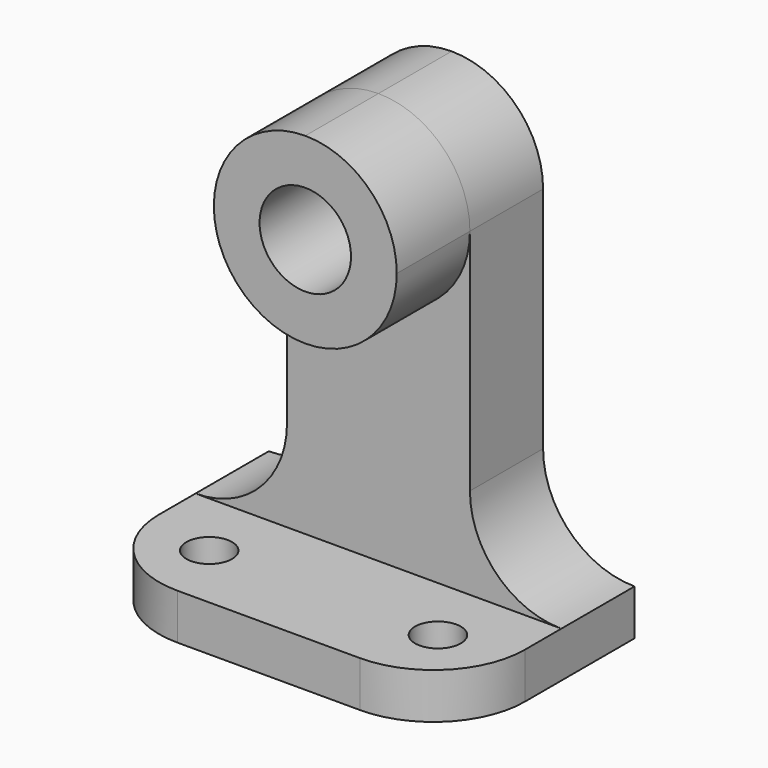
from build123d import *

# Parameters (mm, degrees)
F1_DEPTH  = 50.8
F3_DEPTH  = 12.701
F5_DEPTH  = 12.7
F6_DEPTH  = 12.701
F7_R      = 6.35
F8_DEPTH  = 25.401
F9_R      = 3.175
F10_DEPTH = 6.351
F12_DEPTH = 6.351


with BuildPart() as f1:
    # F0 (on Right) → F1 (new body)
    with BuildSketch(Plane.YZ):
        Polygon((12.7, 0), (12.7, 63.5), (0, 63.5), (0, 6.35), (-19.05, 6.35), (-19.05, 0), align=None)
    extrude(amount=F1_DEPTH)

    # F2 (on face) → F3 (cut, through all)
    with BuildSketch(Plane.XZ):
        with BuildLine():
            Line((12.7, 19.05), (12.7, 63.5))
            Line((12.7, 63.5), (0, 63.5))
            Line((0, 63.5), (0, 31.75))
            ThreePointArc((0, 31.75), (8.9802561211, 28.0302561211), (12.7, 19.05))
        make_face()
        with BuildLine():
            Line((38.1, 63.5), (38.1, 19.05))
            ThreePointArc((38.1, 19.05), (41.8197438789, 28.0302561211), (50.8, 31.75))
            Line((50.8, 31.75), (50.8, 63.5))
            Line((50.8, 63.5), (38.1, 63.5))
        make_face()
        with BuildLine():
            Line((0, 31.75), (0, 6.35))
            ThreePointArc((0, 6.35), (8.9802561211, 10.0697438789), (12.7, 19.05))
            ThreePointArc((12.7, 19.05), (8.9802561211, 28.0302561211), (0, 31.75))
        make_face()
        with BuildLine():
            ThreePointArc((50.8, 31.75), (41.8197438789, 28.0302561211), (38.1, 19.05))
            ThreePointArc((38.1, 19.05), (41.8197438789, 10.0697438789), (50.8, 6.35))
            Line((50.8, 6.35), (50.8, 31.75))
        make_face()
    extrude(amount=-F3_DEPTH, mode=Mode.SUBTRACT)

    # F4 (on face) → F5 (join)
    with BuildSketch(Plane.XZ):
        with BuildLine():
            ThreePointArc((12.7, 50.8), (25.4, 38.1), (38.1, 50.8))
            ThreePointArc((38.1, 50.8), (34.3802561211, 59.7802561211), (25.4, 63.5))
            ThreePointArc((25.4, 63.5), (16.4197438789, 59.7802561211), (12.7, 50.8))
        make_face()
    extrude(amount=F5_DEPTH)

    # F6 (cut, through all): faces of the model
    f6_faces = [f1.faces().sort_by_distance(p)[0] for p in [
        (15.5367728246, 0, 60.6632271754),
        (35.2632271754, 0, 60.6632271754),
    ]]
    extrude(f6_faces, amount=-F6_DEPTH, mode=Mode.SUBTRACT)

    # F7 (on face) → F8 (cut, through all)
    with BuildSketch(Plane.XZ.offset(12.7)):
        with Locations((25.4, 50.8)):
            Circle(F7_R)
    extrude(amount=-F8_DEPTH, mode=Mode.SUBTRACT)

    # F9 (on face) → F10 (cut, through all)
    with BuildSketch(Plane.XY.offset(6.35)):
        with Locations((9.525, -9.525)):
            Circle(F9_R)
        with Locations((41.275, -9.525)):
            Circle(F9_R)
    extrude(amount=-F10_DEPTH, mode=Mode.SUBTRACT)

    # F11 (on face) → F12 (cut, through all)
    with BuildSketch(Plane.XY.offset(6.35)):
        with BuildLine():
            Line((0, -19.05), (12.7, -19.05))
            ThreePointArc((12.7, -19.05), (3.7197438789, -15.3302561211), (0, -6.35))
            Line((0, -6.35), (0, -19.05))
        make_face()
        with BuildLine():
            ThreePointArc((50.8, -6.35), (47.0802561211, -15.3302561211), (38.1, -19.05))
            Line((38.1, -19.05), (50.8, -19.05))
            Line((50.8, -19.05), (50.8, -6.35))
        make_face()
    extrude(amount=-F12_DEPTH, mode=Mode.SUBTRACT)


solid = f1.part
